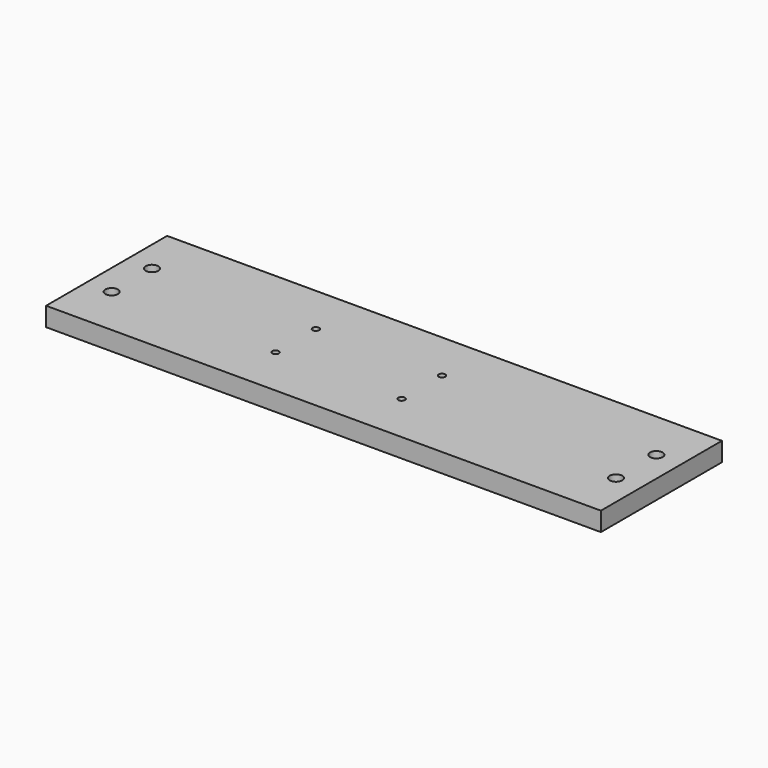
from build123d import *

# Parameters (mm, degrees)
F0_W     = 11
F0_H     = 3
F0_R     = 0.125
F0_R_2   = 0.065
F1_DEPTH = 0.1875


with BuildPart() as f1:
    # F0 (on Top) → F1 (new body, symmetric)
    with BuildSketch(Plane.XY):
        Rectangle(F0_W, F0_H)
        with Locations((-5, -0.5)):
            Circle(F0_R, mode=Mode.SUBTRACT)
        with Locations((-1.75, -0.5)):
            Circle(F0_R_2, mode=Mode.SUBTRACT)
        with Locations((0.75, -0.5)):
            Circle(F0_R_2, mode=Mode.SUBTRACT)
        with Locations((5, -0.5)):
            Circle(F0_R, mode=Mode.SUBTRACT)
        with Locations((-5, 0.5)):
            Circle(F0_R, mode=Mode.SUBTRACT)
        with Locations((-1.75, 0.5)):
            Circle(F0_R_2, mode=Mode.SUBTRACT)
        with Locations((0.75, 0.5)):
            Circle(F0_R_2, mode=Mode.SUBTRACT)
        with Locations((5, 0.5)):
            Circle(F0_R, mode=Mode.SUBTRACT)
    extrude(amount=F1_DEPTH, both=True)


solid = f1.part
